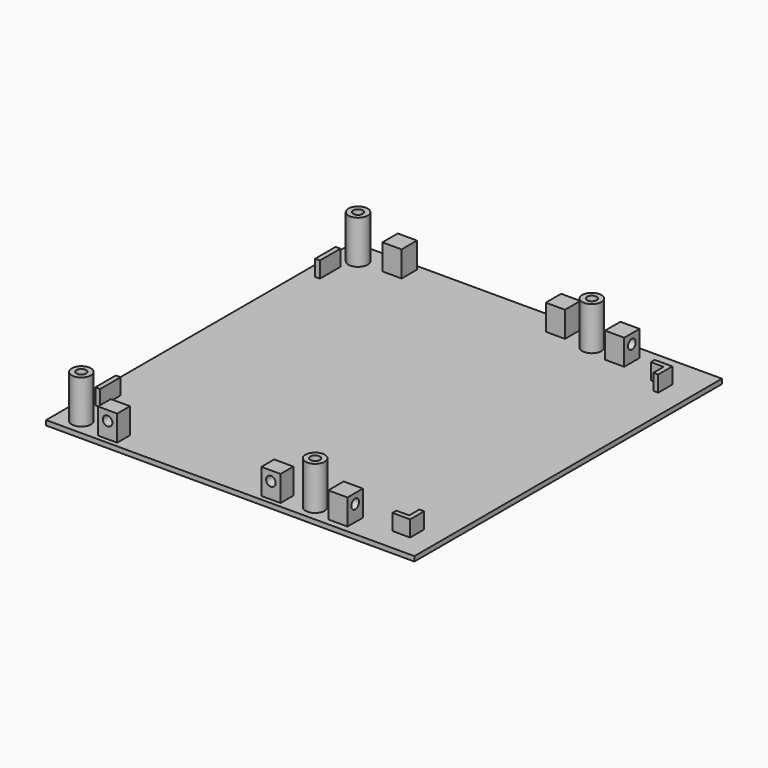
from build123d import *

# Parameters (mm, degrees)
F0_W      = 115
F0_H      = 120
F0_R      = 3
F0_W_2    = 6
F0_H_2    = 5
F0_W_3    = 1.5
F0_H_3    = 8
F0_H_4    = 6
F1_DEPTH  = 1.5
F2_DEPTH  = 15
F3_R      = 1.5
F4_DEPTH  = 10
F5_R      = 1.5
F6_DEPTH  = 10
F7_R      = 1.5
F8_DEPTH  = 10
F9_R      = 1.5
F10_DEPTH = 10
F11_DEPTH = 9.5
F12_R     = 1.5
F13_DEPTH = 4
F14_R     = 1.5
F15_DEPTH = 4
F16_R     = 1.5
F17_DEPTH = 5
F18_R     = 1.5
F19_DEPTH = 5
F20_R     = 1.5
F21_DEPTH = 5
F22_R     = 1.5
F23_DEPTH = 5
F24_DEPTH = 6.5
F25_DEPTH = 6.5
F26_DEPTH = 6.5
F27_DEPTH = 6.5


with BuildPart() as f1:
    # F0 (on Top) → F1 (new body)
    with BuildSketch(Plane.XY):
        Rectangle(F0_W, F0_H)
        with Locations((-50.5, -55)):
            Circle(F0_R, mode=Mode.SUBTRACT)
        with Locations((-39.5, -56)):
            Rectangle(F0_W_2, F0_H_2, mode=Mode.SUBTRACT)
        with Locations((-52.19269, -42.5)):
            Rectangle(F0_W_3, F0_H_3, mode=Mode.SUBTRACT)
        with Locations((11.5, -56)):
            Rectangle(F0_W_2, F0_H_2, mode=Mode.SUBTRACT)
        with Locations((22.5, -55)):
            Circle(F0_R, mode=Mode.SUBTRACT)
        with Locations((32, -55)):
            Rectangle(F0_W_2, F0_H_4, mode=Mode.SUBTRACT)
        Polygon((50.55731, -53), (45.05731, -53), (45.05731, -51.5), (49.05731, -51.5), (49.05731, -47.5), (50.55731, -47.5), align=None, mode=Mode.SUBTRACT)
        with Locations((-52.75, 44)):
            Rectangle(F0_W_3, F0_H_3, mode=Mode.SUBTRACT)
        with Locations((-50.5, 53)):
            Circle(F0_R, mode=Mode.SUBTRACT)
        with Locations((-39.5, 55.5)):
            Rectangle(F0_W_2, F0_H_4, mode=Mode.SUBTRACT)
        with Locations((11.5, 55.5)):
            Rectangle(F0_W_2, F0_H_4, mode=Mode.SUBTRACT)
        with Locations((22.5, 53)):
            Circle(F0_R, mode=Mode.SUBTRACT)
        with Locations((32, 53)):
            Rectangle(F0_W_2, F0_H_4, mode=Mode.SUBTRACT)
        Polygon((44.5, 48.5), (44.5, 50), (50, 50), (50, 44.5), (48.5, 44.5), (48.5, 48.5), align=None, mode=Mode.SUBTRACT)
    extrude(amount=F1_DEPTH)

    # F0 (on Top) → F11 (join)
    with BuildSketch(Plane.XY):
        with Locations((-39.5, 55.5)):
            Rectangle(F0_W_2, F0_H_4)
        with Locations((11.5, 55.5)):
            Rectangle(F0_W_2, F0_H_4)
        with Locations((32, 53)):
            Rectangle(F0_W_2, F0_H_4)
        with Locations((32, -55)):
            Rectangle(F0_W_2, F0_H_4)
        with Locations((11.5, -56)):
            Rectangle(F0_W_2, F0_H_2)
        with Locations((-39.5, -56)):
            Rectangle(F0_W_2, F0_H_2)
    extrude(amount=F11_DEPTH)

    # F12 (on face) → F13 (cut)
    with BuildSketch(Plane.XZ.offset(58.5)):
        with Locations((-39.5, 6.5)):
            Circle(F12_R)
    extrude(amount=-F13_DEPTH, mode=Mode.SUBTRACT)

    # F14 (on face) → F15 (cut)
    with BuildSketch(Plane.XZ.offset(58.5)):
        with Locations((11.5, 6.5)):
            Circle(F14_R)
    extrude(amount=-F15_DEPTH, mode=Mode.SUBTRACT)

    # F16 (on face) → F17 (cut)
    with BuildSketch(Plane.YZ.offset(35)):
        with Locations((-55, 6.5)):
            Circle(F16_R)
    extrude(amount=-F17_DEPTH, mode=Mode.SUBTRACT)

    # F18 (on face) → F19 (cut)
    with BuildSketch(Plane.YZ.offset(35)):
        with Locations((53, 6.5)):
            Circle(F18_R)
    extrude(amount=-F19_DEPTH, mode=Mode.SUBTRACT)

    # F20 (on face) → F21 (cut)
    with BuildSketch(Plane(origin=(0, 58.5, 0), x_dir=(-1, 0, 0), z_dir=(0, 1, 0))):
        with Locations((-11.5, 6.5)):
            Circle(F20_R)
    extrude(amount=-F21_DEPTH, mode=Mode.SUBTRACT)

    # F22 (on face) → F23 (cut)
    with BuildSketch(Plane(origin=(0, 58.5, 0), x_dir=(-1, 0, 0), z_dir=(0, 1, 0))):
        with Locations((39.5, 6.5)):
            Circle(F22_R)
    extrude(amount=-F23_DEPTH, mode=Mode.SUBTRACT)

    # F0 (on Top) → F24 (join)
    with BuildSketch(Plane.XY):
        Polygon((50, 50), (44.5, 50), (44.5, 48.5), (48.5, 48.5), (48.5, 44.5), (50, 44.5), align=None)
    extrude(amount=F24_DEPTH)

    # F0 (on Top) → F25 (join)
    with BuildSketch(Plane.XY):
        Polygon((45.05731, -51.5), (45.05731, -53), (50.55731, -53), (50.55731, -47.5), (49.05731, -47.5), (49.05731, -51.5), align=None)
    extrude(amount=F25_DEPTH)

    # F0 (on Top) → F26 (join)
    with BuildSketch(Plane.XY):
        with Locations((-52.75, 44)):
            Rectangle(F0_W_3, F0_H_3)
    extrude(amount=F26_DEPTH)

    # F0 (on Top) → F27 (join)
    with BuildSketch(Plane.XY):
        with Locations((-52.19269, -42.5)):
            Rectangle(F0_W_3, F0_H_3)
    extrude(amount=F27_DEPTH)


with BuildPart() as f2:
    # F0 (on Top) → F2 (new body)
    with BuildSketch(Plane.XY):
        with Locations((-50.5, 53)):
            Circle(F0_R)
        with Locations((22.5, 53)):
            Circle(F0_R)
        with Locations((-50.5, -55)):
            Circle(F0_R)
        with Locations((22.5, -55)):
            Circle(F0_R)
    extrude(amount=F2_DEPTH)

    # F3 (on face) → F4 (cut)
    with BuildSketch(Plane.XY.offset(15)):
        with Locations((22.5, -55)):
            Circle(F3_R)
    extrude(amount=-F4_DEPTH, mode=Mode.SUBTRACT)

    # F5 (on face) → F6 (cut)
    with BuildSketch(Plane.XY.offset(15)):
        with Locations((-50.5, -55)):
            Circle(F5_R)
    extrude(amount=-F6_DEPTH, mode=Mode.SUBTRACT)

    # F7 (on face) → F8 (cut)
    with BuildSketch(Plane.XY.offset(15)):
        with Locations((-50.5, 53)):
            Circle(F7_R)
    extrude(amount=-F8_DEPTH, mode=Mode.SUBTRACT)

    # F9 (on face) → F10 (cut)
    with BuildSketch(Plane.XY.offset(15)):
        with Locations((22.5, 53)):
            Circle(F9_R)
    extrude(amount=-F10_DEPTH, mode=Mode.SUBTRACT)


solid = Compound([f1.part, f2.part])
